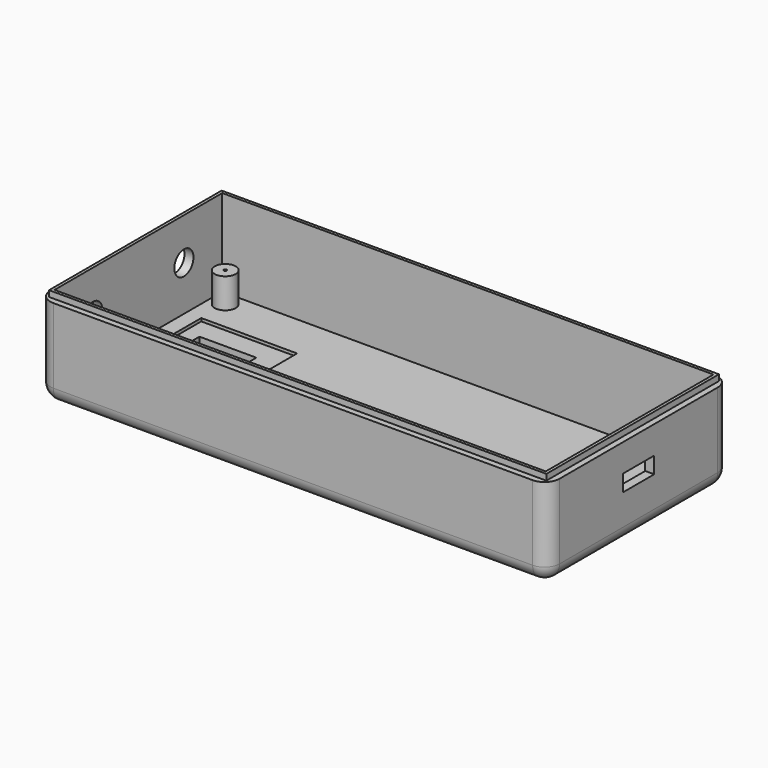
from build123d import *

# Parameters (mm, degrees)
F0_W      = 170
F0_H      = 76
F1_DEPTH  = 30
F2_W      = 164
F2_H      = 70
F3_DEPTH  = 27
F6_W      = 166
F6_H      = 72
F6_W_2    = 164
F6_H_2    = 70
F7_DEPTH  = 2
F5_R      = 4
F9_DEPTH  = 3
F8_R      = 3.5
F10_DEPTH = 10
F11_R     = 0.5
F12_DEPTH = 0.5
F13_W     = 13
F13_H     = 5.5
F14_DEPTH = 3
F15_R     = 5
F16_W     = 19
F16_H     = 26
F17_DEPTH = 25
F18_W     = 32
F18_H     = 40
F18_W_2   = 19
F18_H_2   = 26
F19_DEPTH = 1


with BuildPart() as f1:
    # F0 (on Top) → F1 (new body)
    with BuildSketch(Plane.XY):
        with Locations((85, 38)):
            Rectangle(F0_W, F0_H)
    extrude(amount=F1_DEPTH)

    # F2 (on face) → F3 (cut)
    with BuildSketch(Plane.XY.offset(30)):
        with Locations((85, 38)):
            Rectangle(F2_W, F2_H)
    extrude(amount=-F3_DEPTH, mode=Mode.SUBTRACT)

    # F6 (on face) → F7 (join)
    with BuildSketch(Plane.XY.offset(30)):
        with Locations((85, 38)):
            Rectangle(F6_W, F6_H)
        with Locations((85, 38)):
            Rectangle(F6_W_2, F6_H_2, mode=Mode.SUBTRACT)
    extrude(amount=F7_DEPTH)

    # F5 (on face) → F9 (cut, through all)
    with BuildSketch(Plane(origin=(0, 0, 0), x_dir=(0, -1, 0), z_dir=(-1, 0, 0))):
        with Locations((-57, 18)):
            Circle(F5_R)
        with Locations((-19, 18)):
            Circle(F5_R)
    extrude(amount=-F9_DEPTH, mode=Mode.SUBTRACT)

    # F8 (on face) → F10 (join)
    with BuildSketch(Plane.XY.offset(3)):
        with Locations((8, 68)):
            Circle(F8_R)
        with Locations((8, 8)):
            Circle(F8_R)
        with Locations((162, 8)):
            Circle(F8_R)
        with Locations((162, 68)):
            Circle(F8_R)
    extrude(amount=F10_DEPTH)

    # F11 (on face) → F12 (cut)
    with BuildSketch(Plane.XY.offset(13)):
        with Locations((162, 8)):
            Circle(F11_R)
        with Locations((8, 8)):
            Circle(F11_R)
        with Locations((8, 68)):
            Circle(F11_R)
        with Locations((162, 68)):
            Circle(F11_R)
    extrude(amount=-F12_DEPTH, mode=Mode.SUBTRACT)

    # F13 (on face) → F14 (cut, through all)
    with BuildSketch(Plane.YZ.offset(170)):
        with Locations((38, 18)):
            Rectangle(F13_W, F13_H)
    extrude(amount=-F14_DEPTH, mode=Mode.SUBTRACT)

    # F15
    f15_edges = [f1.edges().sort_by_distance(p)[0] for p in [
        (0, 38, 0),
        (85, 76, 0),
        (170, 38, 0),
        (85, 0, 0),
        (170, 76, 15),
        (170, 0, 15),
        (0, 76, 15),
        (0, 0, 15),
    ]]
    fillet(f15_edges, radius=F15_R)

    # F16 (on face) → F17 (cut)
    with BuildSketch(Plane.XY.offset(3)):
        with Locations((22.5, 38)):
            Rectangle(F16_W, F16_H)
    extrude(amount=-F17_DEPTH, mode=Mode.SUBTRACT)

    # F18 (on face) → F19 (cut)
    with BuildSketch(Plane.XY.offset(3)):
        with Locations((24, 38)):
            Rectangle(F18_W, F18_H)
        with Locations((22.5, 38)):
            Rectangle(F18_W_2, F18_H_2, mode=Mode.SUBTRACT)
    extrude(amount=-F19_DEPTH, mode=Mode.SUBTRACT)


solid = f1.part
